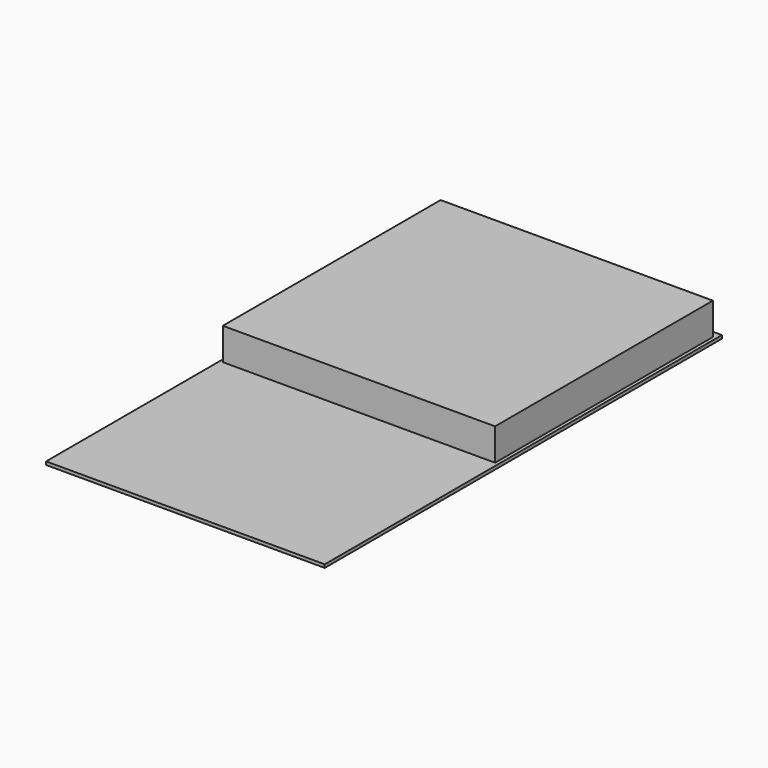
from build123d import *

# Parameters (mm, degrees)
F0_W      = 170
F0_H      = 170
F2_DEPTH  = 20
F3_W      = 174
F3_H      = 310
F3_W_2    = 170
F3_H_2    = 170
F2_FACE_W = 170
F2_FACE_H = 170
F4_DEPTH  = 2


with BuildPart() as f2:
    # F0 (on Top) → F2 (new body)
    with BuildSketch(Plane.XY):
        with Locations((25.4931412637, -35.2143808823)):
            Rectangle(F0_W, F0_H)
    extrude(amount=F2_DEPTH)

    # F3 (on face) + F2_face (on face) → F4 (join)
    with BuildSketch(Plane.XY):
        with Locations((25.6509433389, -100.8525204659)):
            Rectangle(F3_W, F3_H)
        with Locations((25.4931412637, -35.2143808823)):
            Rectangle(F3_W_2, F3_H_2, mode=Mode.SUBTRACT)
    with BuildSketch(Plane(origin=(25.4931412637, -35.2143808823, 20), x_dir=(1, 0, 0), z_dir=(0, 0, 1))):
        Rectangle(F2_FACE_W, F2_FACE_H)
    extrude(amount=-F4_DEPTH)


solid = f2.part
